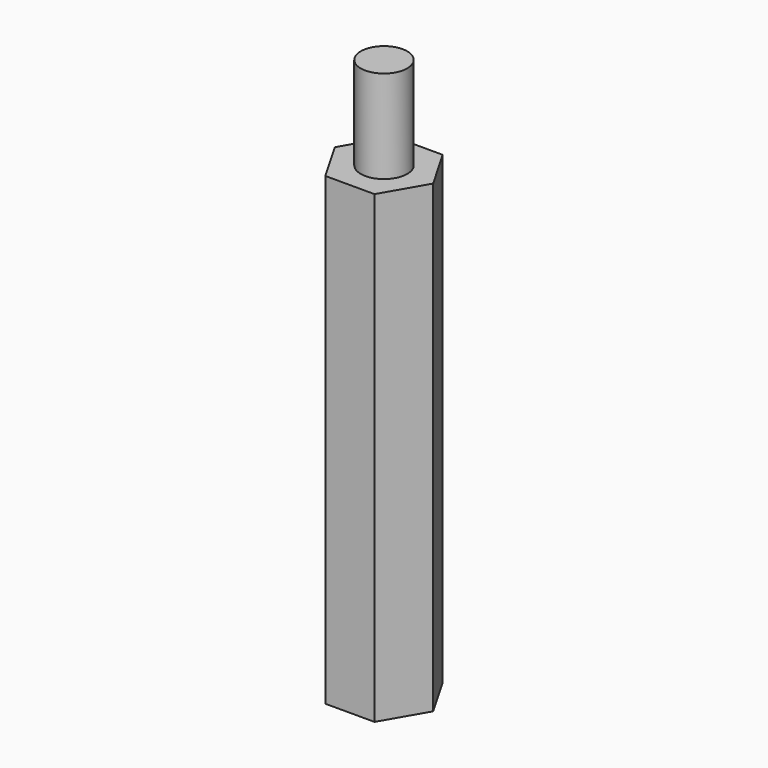
from build123d import *

# Parameters (mm, degrees)
PAD_DEPTH    = 30
SKETCH001_R  = 1.5
PAD001_DEPTH = 6
SKETCH002_R  = 1.5
POCKET_DEPTH = 15


with BuildPart() as part:
    # Sketch → Pad (new body)
    with BuildSketch(Plane.XY):
        Polygon((1.587713, -2.75), (3.175426, 0), (1.587713, 2.75), (-1.587713, 2.75), (-3.175426, 0), (-1.587713, -2.75), align=None)
    extrude(amount=PAD_DEPTH)

    # Sketch001 (on Face8 of Pad) → Pad001 (join)
    with BuildSketch(Plane.XY.offset(30)):
        Circle(SKETCH001_R)
    extrude(amount=PAD001_DEPTH)

    # Sketch002 (on Face4 of Pad001) → Pocket (cut)
    with BuildSketch(Plane(origin=(0, 0, 0), x_dir=(1, 0, 0), z_dir=(0, 0, -1))):
        Circle(SKETCH002_R)
    extrude(amount=-POCKET_DEPTH, mode=Mode.SUBTRACT)


solid = part.part
